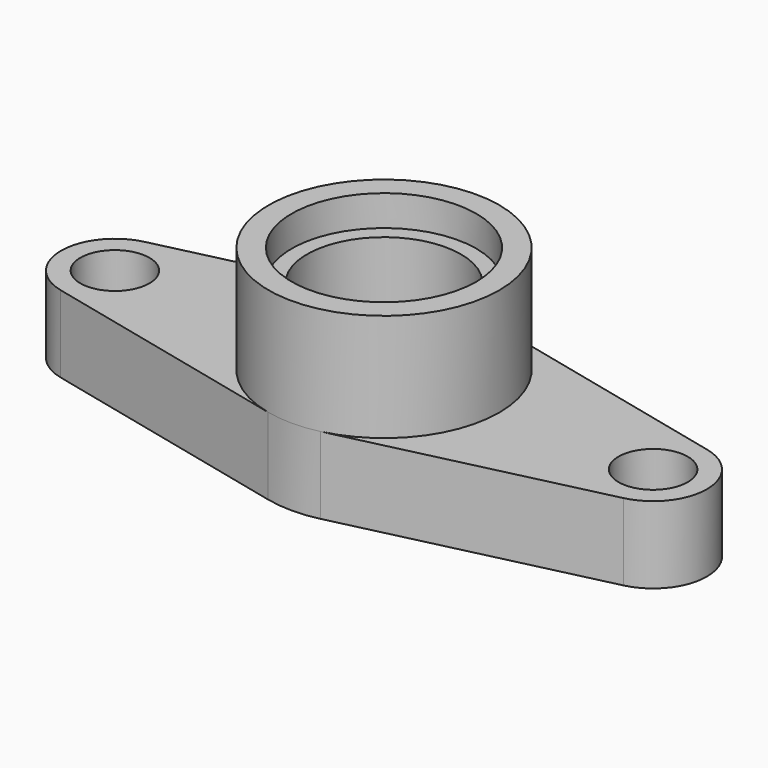
from build123d import *

# Parameters (mm, degrees)
F1_DEPTH  = 254
F2_R      = 381
F3_DEPTH  = 355.6
F4_R      = 76.2
F5_DEPTH  = 254
F6_R      = 76.2
F7_DEPTH  = 254
F8_R      = 114.3
F8_R_2    = 76.2
F9_DEPTH  = 127
F10_DEPTH = 25.4
F11_R     = 114.3
F12_DEPTH = 127
F13_R     = 254
F14_DEPTH = 609.6
F15_R     = 304.8
F16_DEPTH = 101.6


with BuildPart() as f1:
    # F0 (on Top) → F1 (new body)
    with BuildSketch(Plane.XY):
        with BuildLine():
            ThreePointArc((87.085714, -370.913842), (298.614013, -236.62348), (381, 0))
            ThreePointArc((381, 0), (298.614013, 236.62348), (87.085714, 370.913842))
            ThreePointArc((87.085714, 370.913842), (0, 381), (-87.085714, 370.913842))
            ThreePointArc((-87.085714, 370.913842), (-381, 0), (-87.085714, -370.913842))
            ThreePointArc((-87.085714, -370.913842), (0, -381), (87.085714, -370.913842))
        make_face()
        with BuildLine():
            ThreePointArc((87.085714, 370.913842), (298.614013, 236.62348), (381, 0))
            ThreePointArc((381, 0), (298.614013, -236.62348), (87.085714, -370.913842))
            Line((87.085714, -370.913842), (929.64, -173.093126))
            ThreePointArc((929.64, -173.093126), (1066.8, 0), (929.64, 173.093126))
            Line((929.64, 173.093126), (87.085714, 370.913842))
        make_face()
        with BuildLine():
            ThreePointArc((-87.085714, -370.913842), (-381, 0), (-87.085714, 370.913842))
            Line((-87.085714, 370.913842), (-929.64, 173.093126))
            ThreePointArc((-929.64, 173.093126), (-1066.8, 0), (-929.64, -173.093126))
            Line((-929.64, -173.093126), (-87.085714, -370.913842))
        make_face()
    extrude(amount=-F1_DEPTH)

    # F2 (on face) → F3 (join)
    with BuildSketch(Plane.XY):
        Circle(F2_R)
    extrude(amount=F3_DEPTH)

    # F4 (on face) → F5 (cut)
    with BuildSketch(Plane.XY):
        with Locations((-889, 0)):
            Circle(F4_R)
    extrude(amount=-F5_DEPTH, mode=Mode.SUBTRACT)

    # F6 (on face) → F7 (cut)
    with BuildSketch(Plane.XY):
        with Locations((889, 0)):
            Circle(F6_R)
    extrude(amount=-F7_DEPTH, mode=Mode.SUBTRACT)

    # F8 (on face) → F9 (cut)
    with BuildSketch(Plane.XY):
        with Locations((-889, 0)):
            Circle(F8_R)
        with Locations((-889, 0)):
            Circle(F8_R_2, mode=Mode.SUBTRACT)
    extrude(amount=-F9_DEPTH, mode=Mode.SUBTRACT)

    # F8 (on face) → F10 (cut)
    with BuildSketch(Plane.XY):
        with Locations((-889, 0)):
            Circle(F8_R)
        with Locations((-889, 0)):
            Circle(F8_R_2, mode=Mode.SUBTRACT)
    extrude(amount=-F10_DEPTH, mode=Mode.SUBTRACT)

    # F11 (on face) → F12 (cut)
    with BuildSketch(Plane.XY):
        with Locations((889, 0)):
            Circle(F11_R)
    extrude(amount=-F12_DEPTH, mode=Mode.SUBTRACT)

    # F13 (on face) → F14 (cut)
    with BuildSketch(Plane.XY.offset(355.6)):
        Circle(F13_R)
    extrude(amount=-F14_DEPTH, mode=Mode.SUBTRACT)

    # F15 (on face) → F16 (cut)
    with BuildSketch(Plane.XY.offset(355.6)):
        Circle(F15_R)
    extrude(amount=-F16_DEPTH, mode=Mode.SUBTRACT)


solid = f1.part
